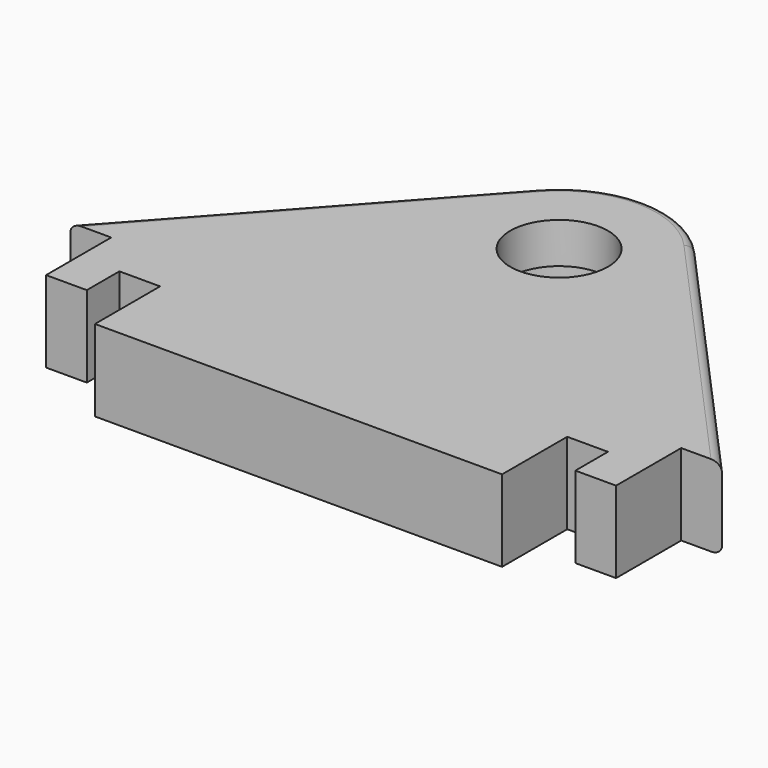
from build123d import *

# Parameters (mm, degrees)
PAD_DEPTH       = 10
SKETCH001_R     = 8
POCKET_DEPTH    = 5
SKETCH003_R     = 6
POCKET001_DEPTH = 5
POCKET002_DEPTH = 10
FILLET_R        = 1


with BuildPart() as part:
    # Sketch → Pad (new body)
    with BuildSketch(Plane.XY):
        with BuildLine():
            Line((40, 0), (-40, 0))
            Line((-40, 0), (-40, 15))
            Line((-9.661357, 48.698171), (-40, 15))
            ThreePointArc((9.661357, 48.698171), (0, 53), (-9.661357, 48.698171))
            Line((9.661357, 48.698171), (40, 15))
            Line((40, 0), (40, 15))
        make_face()
    extrude(amount=PAD_DEPTH)

    # Sketch001 → Pocket (cut)
    with BuildSketch(Plane(origin=(0, 0, 0), x_dir=(1, 0, 0), z_dir=(0, 0, -1))):
        with Locations((0, -40)):
            Circle(SKETCH001_R)
    extrude(amount=-POCKET_DEPTH, mode=Mode.SUBTRACT)

    # Sketch003 → Pocket001 (cut)
    with BuildSketch(Plane(origin=(0, 0, 5), x_dir=(1, 0, 0), z_dir=(0, 0, -1))):
        with Locations((0, -40)):
            Circle(SKETCH003_R)
    extrude(amount=-POCKET001_DEPTH, mode=Mode.SUBTRACT)

    # Sketch002 → Pocket002 (cut)
    with BuildSketch(Plane(origin=(0, 0, 0), x_dir=(1, 0, 0), z_dir=(0, 0, -1))):
        Polygon((-40, -15), (-40, 0), (-25, 0), (-25, -10), (-30, -10), (-30, -5), (-35, -5), (-35, -15), align=None)
        Polygon((40, -15), (40, 0), (25, 0), (25, -10), (30, -10), (30, -5), (35, -5), (35, -15), align=None)
    extrude(amount=-POCKET002_DEPTH, mode=Mode.SUBTRACT)

    # Fillet
    fillet_edges = [part.edges().sort_by_distance(p)[0] for p in [
        (-24.830678, 31.849086, 10),
        (-24.830678, 31.849086, 0),
    ]]
    fillet(fillet_edges, radius=FILLET_R)


solid = part.part
